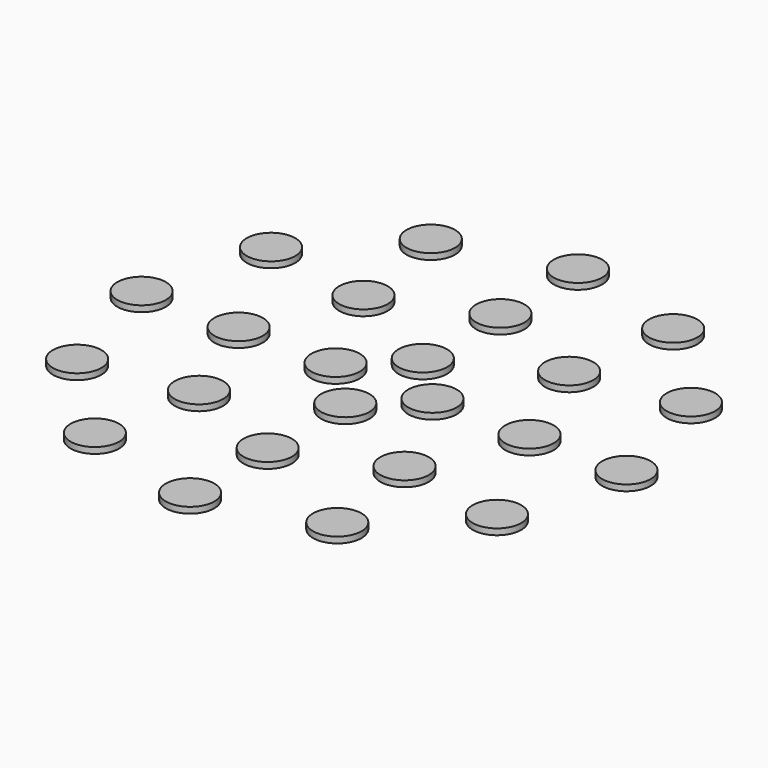
from build123d import *

# Parameters (mm, degrees)
F0_R     = 2
F1_DEPTH = 0.5


with BuildPart() as f1:
    # F0 (on Top) → F1 (new body)
    with BuildSketch(Plane.XY):
        with Locations((-17.317892, -9.99849)):
            Circle(F0_R)
        with Locations((-9.99849, -17.317892)):
            Circle(F0_R)
        with Locations((0, -19.99698)):
            Circle(F0_R)
        with Locations((9.99849, -17.317892)):
            Circle(F0_R)
        with Locations((8.483146, -8.483146)):
            Circle(F0_R)
        with Locations((0, -11.99698)):
            Circle(F0_R)
        with Locations((-8.483146, -8.483146)):
            Circle(F0_R)
        with Locations((-11.99698, 0)):
            Circle(F0_R)
        with Locations((-19.99698, 0)):
            Circle(F0_R)
        with Locations((-17.317892, 9.99849)):
            Circle(F0_R)
        with Locations((-8.483146, 8.483146)):
            Circle(F0_R)
        with Locations((-9.99849, 17.317892)):
            Circle(F0_R)
        with Locations((0, 11.99698)):
            Circle(F0_R)
        with Locations((0, 19.99698)):
            Circle(F0_R)
        with Locations((9.99849, 17.317892)):
            Circle(F0_R)
        with Locations((8.483146, 8.483146)):
            Circle(F0_R)
        with Locations((17.317892, 9.99849)):
            Circle(F0_R)
        with Locations((19.99698, 0)):
            Circle(F0_R)
        with Locations((17.317892, -9.99849)):
            Circle(F0_R)
        with Locations((11.99698, 0)):
            Circle(F0_R)
        with Locations((3.99698, 0)):
            Circle(F0_R)
        with Locations((0, 3.99698)):
            Circle(F0_R)
        with Locations((0, -3.99698)):
            Circle(F0_R)
        with Locations((-3.99698, 0)):
            Circle(F0_R)
    extrude(amount=F1_DEPTH)


solid = f1.part
